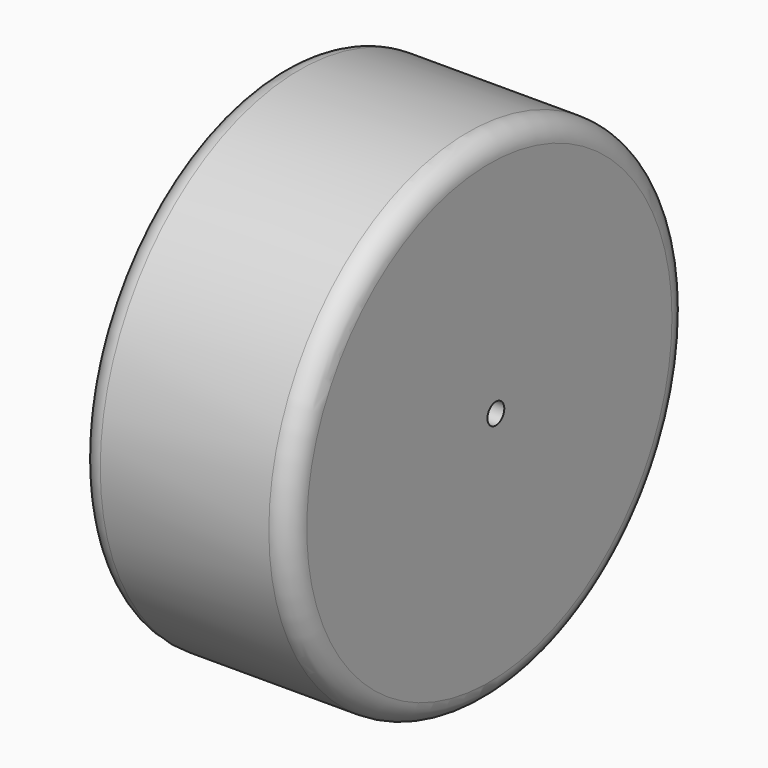
from build123d import *

# Parameters (mm, degrees)
SKETCH008_R     = 35.5
PAD007_DEPTH    = 30
SKETCH009_R     = 24
POCKET001_DEPTH = 25
SKETCH010_R     = 8
PAD008_DEPTH    = 16
POCKET002_DEPTH = 2.5
SKETCH012_R     = 1.5
POCKET003_DEPTH = 25
FILLET_R        = 3
FILLET001_R     = 3


with BuildPart() as part:
    # Sketch008 → Pad007 (new body)
    with BuildSketch(Plane.YZ):
        with Locations((-2.086398, 2.086246)):
            Circle(SKETCH008_R)
    extrude(amount=PAD007_DEPTH)

    # Sketch009 (on Face2 of Pad007) → Pocket001 (cut)
    with BuildSketch(Plane(origin=(0, 0, 0), x_dir=(0, 1, 0), z_dir=(-1, 0, 0))):
        with Locations((-1.664763, -2.119737)):
            Circle(SKETCH009_R)
    extrude(amount=-POCKET001_DEPTH, mode=Mode.SUBTRACT)

    # Sketch010 (on Face5 of Pocket001) → Pad008 (join)
    with BuildSketch(Plane(origin=(25, 0, 0), x_dir=(0, 1, 0), z_dir=(-1, 0, 0))):
        with Locations((-1.350817, -2.732668)):
            Circle(SKETCH010_R)
    extrude(amount=PAD008_DEPTH)

    # Sketch011 (on Face7 of Pad008) → Pocket002 (cut)
    with BuildSketch(Plane(origin=(9, 0, 0), x_dir=(0, 1, 0), z_dir=(-1, 0, 0))):
        Polygon((-1.111872, 4.248012), (-7.222761, 0.700721), (-7.206161, -6.365109), (-1.078672, -9.883648), (5.032216, -6.336357), (5.015616, 0.729474), align=None)
    extrude(amount=-POCKET002_DEPTH, mode=Mode.SUBTRACT)

    # Sketch012 (on Face14 of Pocket002) → Pocket003 (cut)
    with BuildSketch(Plane(origin=(11.5, 0, 0), x_dir=(0, 1, 0), z_dir=(-1, 0, 0))):
        with Locations((-0.927213, -2.793039)):
            Circle(SKETCH012_R)
    extrude(amount=-POCKET003_DEPTH, mode=Mode.SUBTRACT)

    # Fillet
    fillet_edges = [part.edges().sort_by_distance(p)[0] for p in [
        (0, -37.586398, 2.086246),
    ]]
    fillet(fillet_edges, radius=FILLET_R)

    # Fillet001
    fillet001_edges = [part.edges().sort_by_distance(p)[0] for p in [
        (30, -37.586398, 2.086246),
    ]]
    fillet(fillet001_edges, radius=FILLET001_R)


with BuildPart() as part_1:
    # Body003 placement: moved
    add(part.part.moved(Location((55, -37, 20))))


solid = part_1.part
